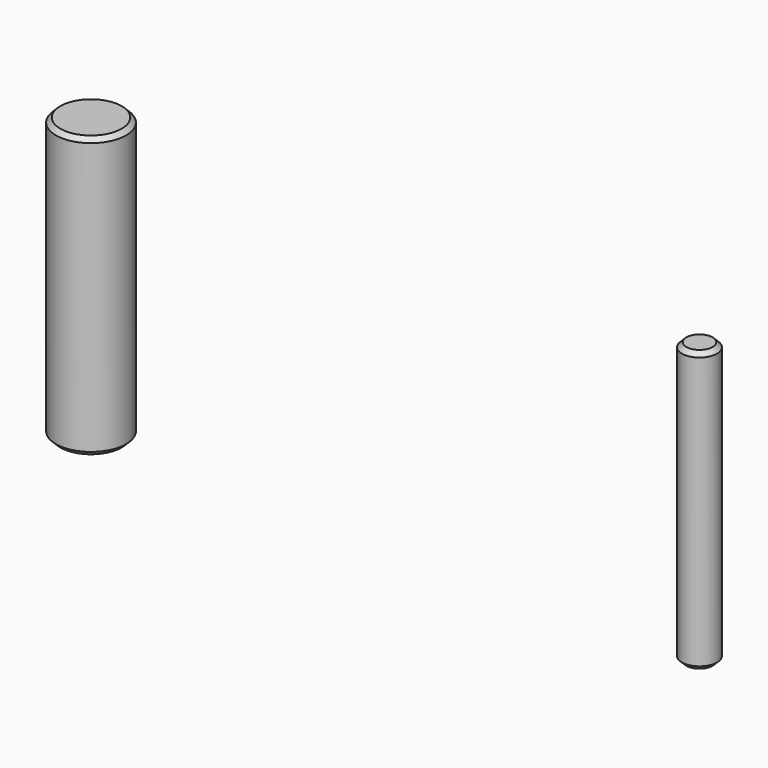
from build123d import *

# Parameters (mm, degrees)
F0_R      = 3.96875
F1_DEPTH  = 31.75
F0_R_2    = 1.984375
F2_DEPTH  = 31.75
F3_SIZE   = 0.5
F3_2_SIZE = 0.5


with BuildPart() as f1:
    # F0 (on Top) → F1 (new body)
    with BuildSketch(Plane.XY):
        with Locations((-38.553708, 0)):
            Circle(F0_R)
    extrude(amount=F1_DEPTH)

    # F3
    f3_edges = [f1.edges().sort_by_distance(p)[0] for p in [
        (-42.522458, 0, 31.75),
        (-42.522458, 0, 0),
    ]]
    chamfer(f3_edges, length=F3_SIZE)


with BuildPart() as f2:
    # F0 (on Top) → F2 (new body)
    with BuildSketch(Plane.XY):
        with Locations((30.281539, 0)):
            Circle(F0_R_2)
    extrude(amount=F2_DEPTH)

    # F3#2
    f3_2_edges = [f2.edges().sort_by_distance(p)[0] for p in [
        (28.297164, 0, 31.75),
        (28.297164, 0, 0),
    ]]
    chamfer(f3_2_edges, length=F3_2_SIZE)


solid = Compound([f1.part, f2.part])
